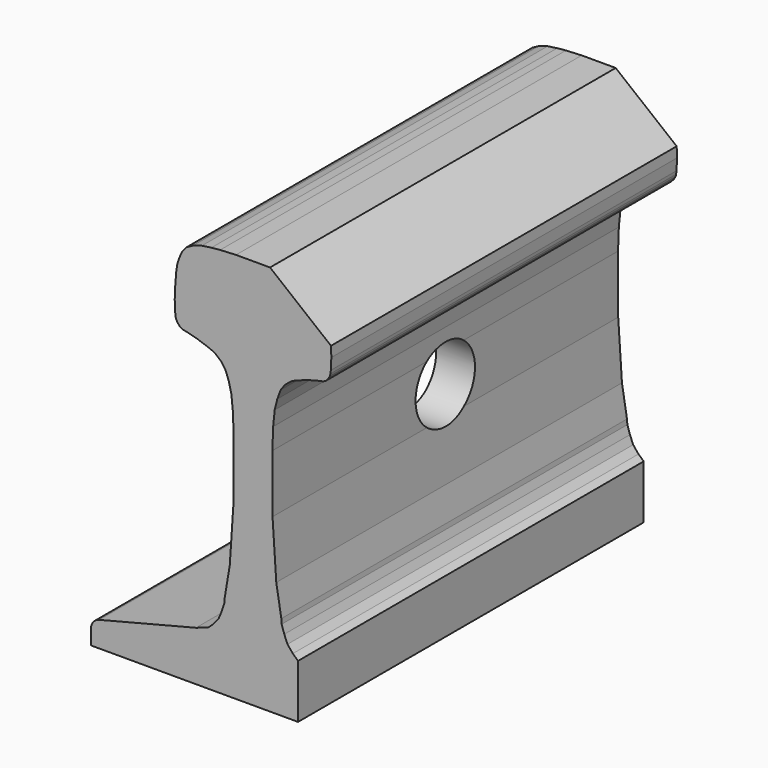
from build123d import *

# Parameters (mm, degrees)
F1_DEPTH = 203.2
F2_R     = 5.08
F4_DEPTH = 508
F5_R     = 17.4625
F6_DEPTH = 152.4
F8_DEPTH = 508


with BuildPart() as f1:
    # F0 (on Front) → F1 (new body)
    with BuildSketch(Plane.XZ):
        Polygon((-76.2, -46.21704), (-76.2, -57.094753), (76.2, -57.094753), (76.2, -46.21704), (26.83735, -33.72637), (21.163462, -31.835258), (18.708812, -29.612178), (16.218112, -26.55388), (14.689744, -22.895062), (13.485576, -19.143616), (13.305501, -16.85449), (10.935693, -2.660843), (9.173225, 23.941404), (9.095304, 51.274587), (9.465817, 61.371074), (10.203332, 68.52603), (11.415046, 73.405639), (12.987001, 77.66302), (14.984693, 80.446691), (18.095852, 83.001115), (20.683027, 84.147327), (25.922873, 85.98128), (30.180251, 87.1275), (33.094916, 87.749728), (34.175634, 88.306465), (35.387348, 89.616426), (36.173157, 90.991981), (36.40228, 91.97448), (36.598587, 93.513711), (36.598872, 93.52041), (36.827176, 98.88458), (36.669851, 103.667696), (36.407496, 106.64783), (36.177806, 110.315693), (35.555092, 114.278253), (34.24468, 117.978737), (33.327476, 119.878062), (31.132972, 122.464971), (28.218115, 124.036569), (24.026078, 125.34602), (19.539378, 126.000454), (15.433662, 126.392808), (7.999516, 126.762047), (0, 126.762047), (-7.999516, 126.762047), (-15.433662, 126.392808), (-19.539378, 126.000454), (-24.026078, 125.34602), (-28.218115, 124.036569), (-31.132972, 122.464971), (-33.327476, 119.878062), (-34.24468, 117.978737), (-35.555092, 114.278253), (-36.177806, 110.315693), (-36.407496, 106.64783), (-36.669851, 103.667696), (-36.827176, 98.88458), (-36.598872, 93.52041), (-36.598587, 93.513711), (-36.40228, 91.97448), (-36.173157, 90.991981), (-35.387348, 89.616426), (-34.175634, 88.306465), (-33.094916, 87.749728), (-30.180251, 87.1275), (-25.922873, 85.98128), (-20.683027, 84.147327), (-18.095852, 83.001115), (-14.984693, 80.446691), (-12.987001, 77.66302), (-11.415046, 73.405639), (-10.203332, 68.52603), (-9.465817, 61.371074), (-9.095304, 51.274587), (-9.173225, 23.941404), (-10.935693, -2.660843), (-13.305501, -16.85449), (-13.485576, -19.143616), (-14.689744, -22.895062), (-16.218112, -26.55388), (-18.708812, -29.612178), (-21.163462, -31.835258), (-26.83735, -33.72637), align=None)
    extrude(amount=F1_DEPTH)

    # F2
    f2_edges = [f1.edges().sort_by_distance(p)[0] for p in [
        (76.2, -101.6, -46.21704),
        (-76.2, -101.6, -46.21704),
    ]]
    fillet(f2_edges, radius=F2_R)

    # F3 (on face) → F4 (cut)
    with BuildSketch(Plane.XZ.offset(203.2)):
        with BuildLine():
            Line((26.83735, -33.72637), (21.163462, -31.835258))
            Line((21.163462, -31.835258), (21.163462, -57.094753))
            Line((21.163462, -57.094753), (76.2, -57.094753))
            Line((76.2, -57.094753), (76.2, -50.171713))
            ThreePointArc((76.2, -50.171713), (75.128547, -47.051144), (72.366162, -45.24693))
            Line((72.366162, -45.24693), (26.83735, -33.72637))
        make_face()
    extrude(amount=-F4_DEPTH, mode=Mode.SUBTRACT)

    # F5 (on Right) → F6 (cut, symmetric)
    with BuildSketch(Plane.YZ):
        with Locations((-101.6, 37.607995)):
            Circle(F5_R)
    extrude(amount=F6_DEPTH, both=True, mode=Mode.SUBTRACT)

    # F7 (on face) → F8 (cut)
    with BuildSketch(Plane.XZ.offset(203.2)):
        Polygon((15.433662, 126.392808), (7.999516, 126.762047), (36.669851, 103.667696), (36.407496, 106.64783), (36.177806, 110.315693), (35.555092, 114.278253), (34.24468, 117.978737), (33.327476, 119.878062), (31.132972, 122.464971), (28.218115, 124.036569), (24.026078, 125.34602), (19.539378, 126.000454), align=None)
    extrude(amount=-F8_DEPTH, mode=Mode.SUBTRACT)


solid = f1.part
